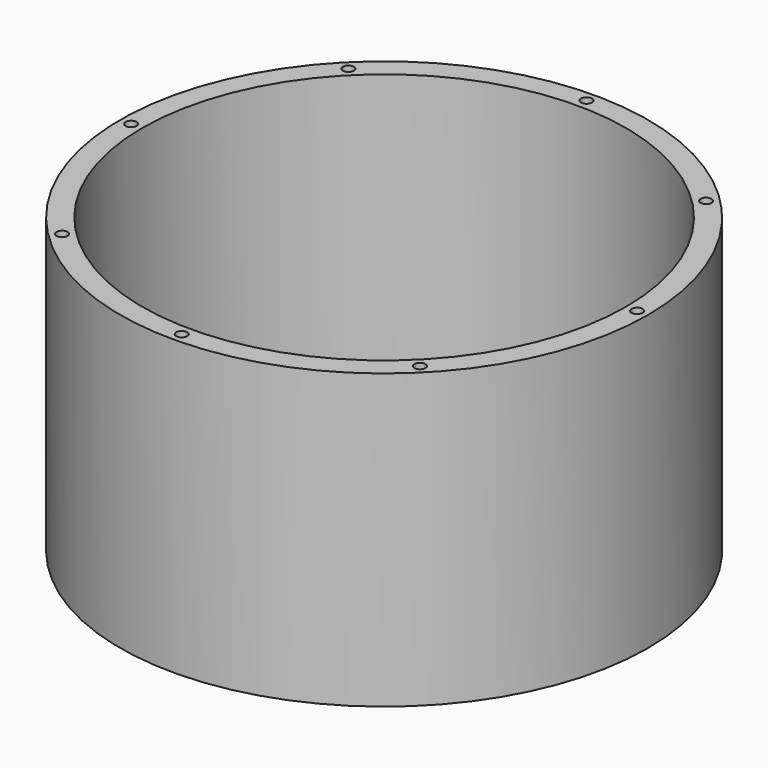
from build123d import *

# Parameters (mm, degrees)
F0_R     = 36
F1_DEPTH = 40
F2_R     = 33
F3_DEPTH = 40.001
F5_D     = 1.5


with BuildPart() as f1:
    # F0 (on Top) → F1 (new body)
    with BuildSketch(Plane.XY):
        Circle(F0_R)
    extrude(amount=F1_DEPTH)

    # F2 (on Top) → F3 (cut, through all)
    with BuildSketch(Plane.XY):
        Circle(F2_R)
    extrude(amount=F3_DEPTH, mode=Mode.SUBTRACT)

    # F5 (through all)
    with Locations(Plane(origin=(0, 0, 0), x_dir=(1, 0, 0), z_dir=(0, 0, -1))):
        with Locations((0, 34.5), (-24.3951839509, 24.3951839509), (-34.5, 0), (24.3951839509, 24.3951839509), (-24.3951839509, -24.3951839509), (0, -34.5), (24.3951839509, -24.3951839509), (34.5, 0)):
            Hole(F5_D / 2)


solid = f1.part
